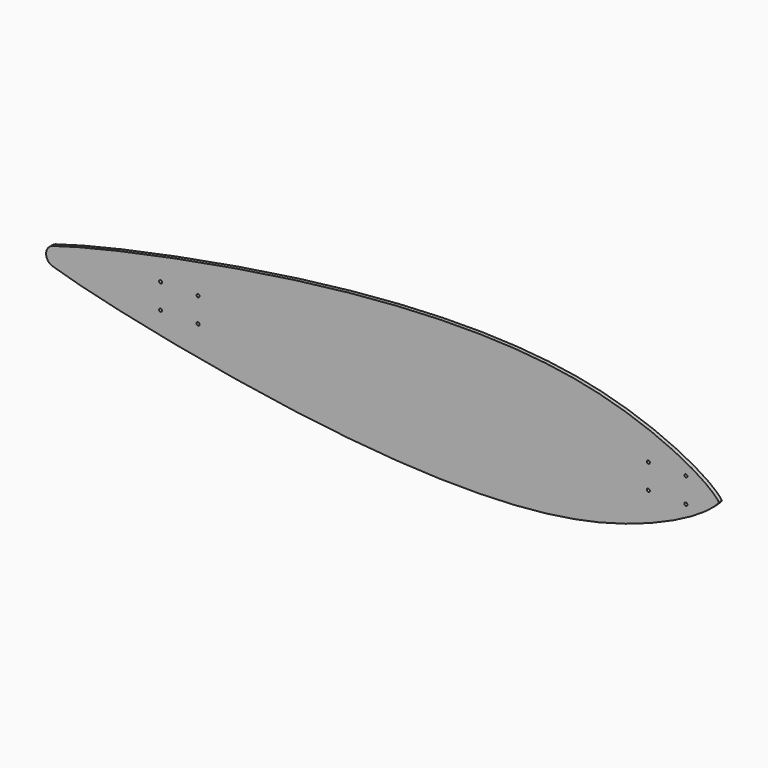
from build123d import *

# Parameters (mm, degrees)
F1_DEPTH = 6.35
F3_D     = 5.1054


with BuildPart() as f1:
    # F0 (on Front) → F1 (new body)
    with BuildSketch(Plane.XZ):
        with BuildLine():
            add(Edge.make_bspline(
                [(29.980336501, 142.1132227858), (72.8228236088, 155.8862661303), (324.4965333324, 216.4910990515), (900.5113158772, 285.470330931), (1138.8384245259, 153.8530853262), (1157.3419364467, 127)],
                knots=[0, 0, 0, 0, 0.2890268791, 0.725242684, 1, 1, 1, 1], degree=3))
            ThreePointArc((29.980336501, 142.1132227858), (22.010346693, 136.3510732212), (18.9639496805, 127))
            ThreePointArc((18.9639496805, 127), (22.010346693, 117.6489267788), (29.980336501, 111.8867772142))
            add(Edge.make_bspline(
                [(29.980336501, 111.8867772142), (72.8228236088, 98.1137338697), (324.4965333324, 37.5089009485), (900.5113158772, -31.470330931), (1138.8384245259, 100.1469146738), (1157.3419364467, 127)],
                knots=[0, 0, 0, 0, 0.2890268791, 0.725242684, 1, 1, 1, 1], degree=3))
        make_face()
    extrude(amount=F1_DEPTH)

    # F3 (through all)
    with Locations(Plane.XZ.offset(6.35)):
        with Locations((276.1389496805, 148.0566), (276.1389496805, 105.9434), (212.6389496805, 148.0566), (1037.9619364467, 148.0566), (1037.9619364467, 105.9434), (1101.4619364467, 105.9434), (1101.4619364467, 148.0566), (212.6389496805, 105.9434)):
            Hole(F3_D / 2)


solid = f1.part
